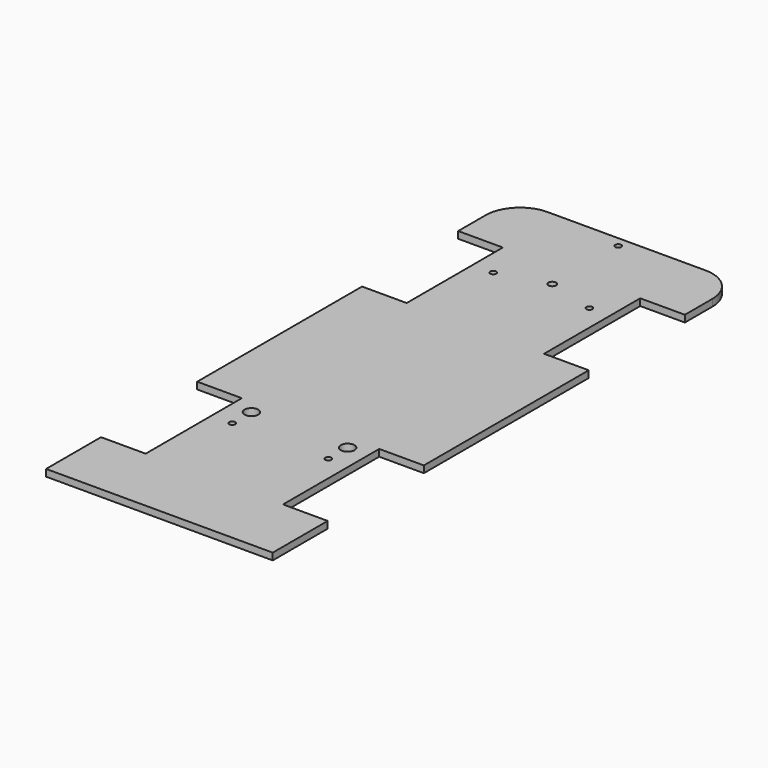
from build123d import *

# Parameters (mm, degrees)
F1_DEPTH = 4
F2_D     = 8
F3_D     = 3.5
F4_D     = 8
F5_D     = 3.5
F6_D     = 4.5
F7_D     = 3.5


with BuildPart() as f1:
    # F0 (on Top) → F1 (new body)
    with BuildSketch(Plane.XY):
        Polygon((-40, 90), (-66, 90), (-66, 70), (-41.2157141343, 70), (-40, 70), (-40, 62.8748962879), (-40, 56), (-40, 48), (-40, 0), (-66, 0), (-66, -120), (-40, -120), (-40, -128), (-40, -135.5958282948), (-40, -142), (-40, -190), (-66, -190), (-66, -230), (0, -230), (0, 56), (0, 62.8748962879), (0, 90), align=None)
        Polygon((66, 90), (0, 90), (0, 62.8748962879), (0, 56), (0, -230), (66, -230), (66, -190), (40, -190), (40, -142), (40, -128), (40, -120), (66, -120), (66, 0), (40, 0), (40, 48), (40, 70), (66, 70), align=None)
        with BuildLine():
            Line((0, 104), (0, 90))
            Line((0, 90), (66, 90))
            ThreePointArc((66, 90), (60.1421356237, 104.1421356237), (46, 110))
            Line((46, 110), (40, 110))
            Line((40, 110), (0, 110))
            Line((0, 110), (0, 104))
        make_face()
        Polygon((-40, 110), (-40, 90), (0, 90), (0, 104), (0, 110), (-6.6373916343, 110), align=None)
        with BuildLine():
            ThreePointArc((-46, 110), (-60.1421356237, 104.1421356237), (-66, 90))
            Line((-66, 90), (-40, 90))
            Line((-40, 90), (-40, 110))
            Line((-40, 110), (-46, 110))
        make_face()
    extrude(amount=F1_DEPTH)

    # F2 (through all)
    with Locations(Plane(origin=(0, 0, 0), x_dir=(1, 0, 0), z_dir=(0, 0, -1))):
        with Locations((-28, 128)):
            Hole(F2_D / 2)

    # F3 (through all)
    with Locations(Plane(origin=(0, 0, 0), x_dir=(1, 0, 0), z_dir=(0, 0, -1))):
        with Locations((-28, 142), (28, 142)):
            Hole(F3_D / 2)

    # F4 (through all)
    with Locations(Plane(origin=(0, 0, 0), x_dir=(1, 0, 0), z_dir=(0, 0, -1))):
        with Locations((28, 128)):
            Hole(F4_D / 2)

    # F5 (through all)
    with Locations(Plane(origin=(0, 0, 0), x_dir=(1, 0, 0), z_dir=(0, 0, -1))):
        with Locations((-28, -48), (28, -48)):
            Hole(F5_D / 2)

    # F6 (through all)
    with Locations(Plane(origin=(0, 0, 0), x_dir=(1, 0, 0), z_dir=(0, 0, -1))):
        with Locations((0, -56)):
            Hole(F6_D / 2)

    # F7 (through all)
    with Locations(Plane(origin=(0, 0, 0), x_dir=(1, 0, 0), z_dir=(0, 0, -1))):
        with Locations((0, -104)):
            Hole(F7_D / 2)


solid = f1.part
